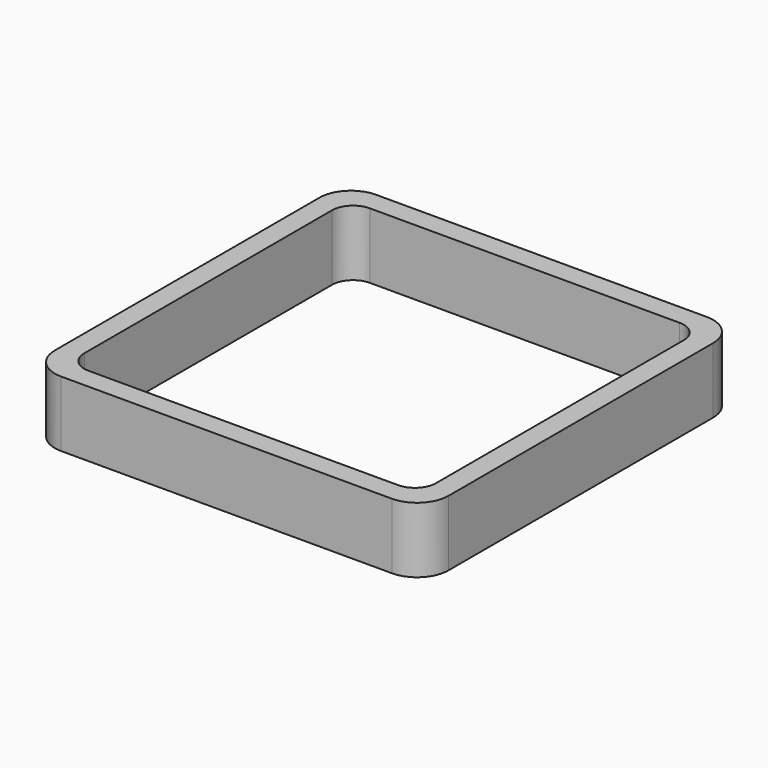
from build123d import *

# Parameters (mm, degrees)
EXTRUDE_DEPTH = 50


with BuildPart() as part:
    # Sketch → Extrude (new body)
    with BuildSketch(Plane.XY):
        with BuildLine():
            Line((-126, 150), (126, 150))
            ThreePointArc((150, 126), (142.970563, 142.970563), (126, 150))
            Line((150, 126), (150, -126))
            ThreePointArc((126, -150), (142.970563, -142.970563), (150, -126))
            Line((126, -150), (-126, -150))
            ThreePointArc((-150, -126), (-142.970563, -142.970563), (-126, -150))
            Line((-150, -126), (-150, 126))
            ThreePointArc((-126, 150), (-142.970563, 142.970563), (-150, 126))
        make_face()
        with BuildLine():
            Line((-118, 134), (118, 134))
            ThreePointArc((134, 118), (129.313708, 129.313708), (118, 134))
            Line((134, 118), (134, -118))
            ThreePointArc((118, -134), (129.313708, -129.313708), (134, -118))
            Line((118, -134), (-118, -134))
            ThreePointArc((-134, -118), (-129.313708, -129.313708), (-118, -134))
            Line((-134, -118), (-134, 118))
            ThreePointArc((-118, 134), (-129.313708, 129.313708), (-134, 118))
        make_face(mode=Mode.SUBTRACT)
    extrude(amount=EXTRUDE_DEPTH)


solid = part.part
